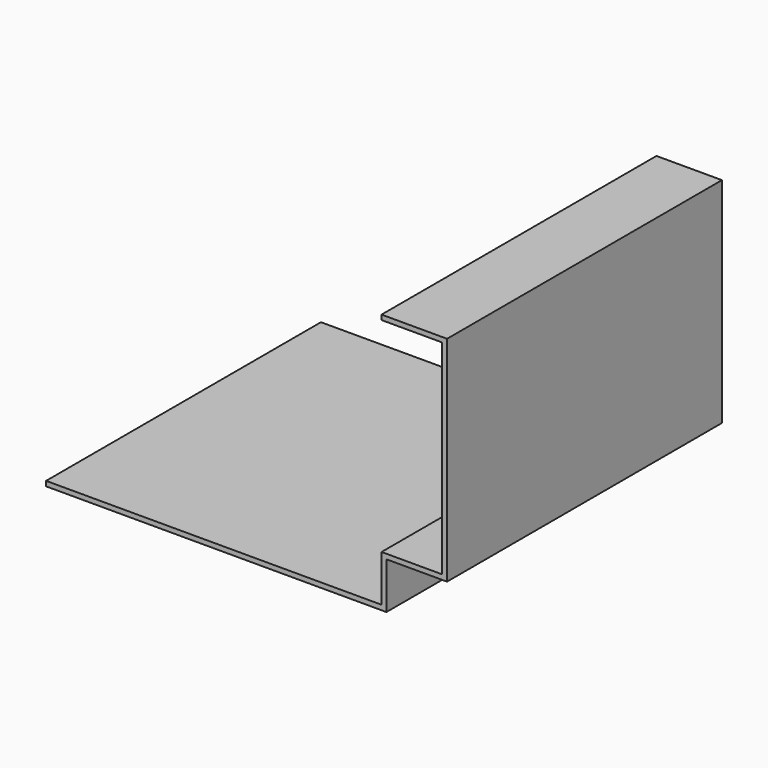
from build123d import *

# Parameters (mm, degrees)
F1_DEPTH = 33.5
F2_W     = 83
F2_H     = 1.2
F3_DEPTH = 42.5
F5_DEPTH = 76.001
F7_DEPTH = 76.001


with BuildPart() as f1:
    # F0 (on Front) → F1 (new body, symmetric)
    with BuildSketch(Plane.XZ):
        Polygon((83, 0), (0, 0), (0, -23), (83, -23), (83, -11.5), align=None)
        Polygon((83, 39), (83, 0), (83, -11.5), (98, -11.5), (98, 39), align=None)
    extrude(amount=F1_DEPTH, both=True)

    # F2 (on Front) → F3 (join, symmetric)
    with BuildSketch(Plane.XZ):
        Polygon((83, 40.2), (83, 39), (98, 39), (99.2, 39), (99.2, 40.2), align=None)
        Polygon((99.2, 39), (98, 39), (98, -11.5), (98, -12.7), (99.2, -12.7), align=None)
        with Locations((41.5, -23.6)):
            Rectangle(F2_W, F2_H)
        Polygon((83, -12.7), (83, -23), (83, -24.2), (84.2, -24.2), (84.2, -12.7), align=None)
        Polygon((98, -12.7), (98, -11.5), (83, -11.5), (83, -12.7), (84.2, -12.7), align=None)
    extrude(amount=F3_DEPTH, both=True)

    # F4 (on face) → F5 (cut, through all)
    with BuildSketch(Plane.XZ.offset(33.5)):
        Polygon((21, -21), (2, -2), (2, -21), align=None)
        Polygon((21.848528, -20.151472), (40, -2), (3.697056, -2), align=None)
        Polygon((40.848528, -2.848528), (22.697056, -21), (59, -21), align=None)
        Polygon((59.848528, -20.151472), (78, -2), (41.697056, -2), align=None)
        Polygon((81, -9.5), (85.5, -9.5), (78.848528, -2.848528), (60.697056, -21), (81, -21), align=None)
        Polygon((96, -9.5), (96, 0), (86.286385, -8.788509), (86.997877, -9.5), align=None)
        Polygon((96, 2.302944), (85, 13.302944), (85, -2), (79.497877, -2), (85.436797, -7.93892), (96, 1.618263), align=None)
        Polygon((96, 4), (96, 24.302944), (85.848528, 14.151472), align=None)
        Polygon((95.151472, 25.151472), (85, 35.302944), (85, 15), align=None)
        Polygon((96, 37), (85, 37), (96, 26), align=None)
    extrude(amount=-F5_DEPTH, mode=Mode.SUBTRACT)

    # F6 (on face) → F7 (cut, through all)
    with BuildSketch(Plane.XZ.offset(33.5)):
        Polygon((83, 39), (83, 0), (0, 0), (0, -23), (83, -23), (83, -11.5), (98, -11.5), (98, 39), align=None)
    extrude(amount=-F7_DEPTH, mode=Mode.SUBTRACT)


solid = f1.part
